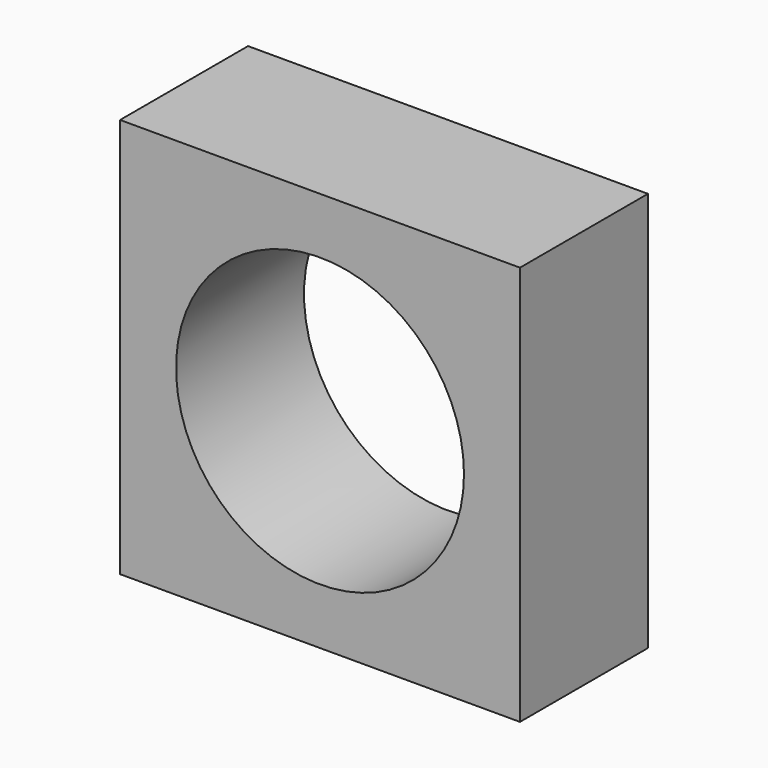
from build123d import *

# Parameters (mm, degrees)
F0_W     = 63.5
F0_H     = 63.5
F0_R     = 22.86
F1_DEPTH = 25.4


with BuildPart() as f1:
    # F0 (on Front) → F1 (new body)
    with BuildSketch(Plane.XZ):
        Rectangle(F0_W, F0_H)
        Circle(F0_R, mode=Mode.SUBTRACT)
    extrude(amount=-F1_DEPTH)


solid = f1.part
